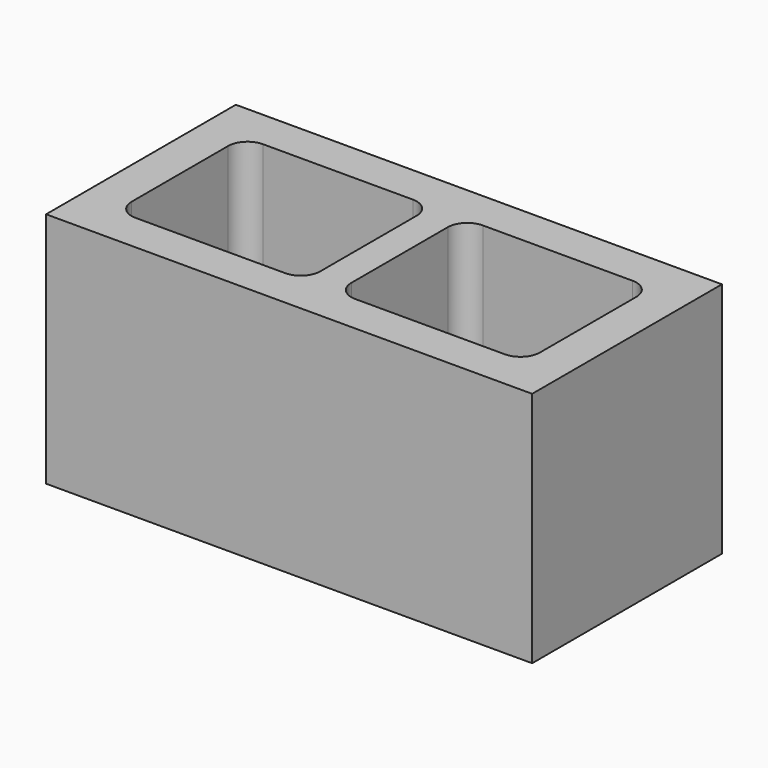
from build123d import *

# Parameters (mm, degrees)
F0_W     = 396.875
F0_H     = 193.675
F1_DEPTH = 96.8375


with BuildPart() as f1:
    # F0 (on Top) → F1 (new body, symmetric)
    with BuildSketch(Plane.XY):
        Rectangle(F0_W, F0_H)
        with BuildLine():
            ThreePointArc((-166.6875, 49.2125), (-162.03782, 60.43782), (-150.8125, 65.0875))
            Line((-150.8125, 65.0875), (-28.575, 65.0875))
            ThreePointArc((-28.575, 65.0875), (-17.34968, 60.43782), (-12.7, 49.2125))
            Line((-12.7, 49.2125), (-12.7, 0))
            Line((-12.7, 0), (-12.7, -49.2125))
            ThreePointArc((-12.7, -49.2125), (-17.34968, -60.43782), (-28.575, -65.0875))
            Line((-28.575, -65.0875), (-150.8125, -65.0875))
            ThreePointArc((-150.8125, -65.0875), (-162.03782, -60.43782), (-166.6875, -49.2125))
            Line((-166.6875, -49.2125), (-166.6875, 49.2125))
        make_face(mode=Mode.SUBTRACT)
        with BuildLine():
            Line((12.7, -49.2125), (12.7, 0))
            Line((12.7, 0), (12.7, 49.2125))
            ThreePointArc((12.7, 49.2125), (17.34968, 60.43782), (28.575, 65.0875))
            Line((28.575, 65.0875), (150.8125, 65.0875))
            ThreePointArc((150.8125, 65.0875), (162.03782, 60.43782), (166.6875, 49.2125))
            Line((166.6875, 49.2125), (166.6875, -49.2125))
            ThreePointArc((166.6875, -49.2125), (162.03782, -60.43782), (150.8125, -65.0875))
            Line((150.8125, -65.0875), (28.575, -65.0875))
            ThreePointArc((28.575, -65.0875), (17.34968, -60.43782), (12.7, -49.2125))
        make_face(mode=Mode.SUBTRACT)
    extrude(amount=F1_DEPTH, both=True)


solid = f1.part
